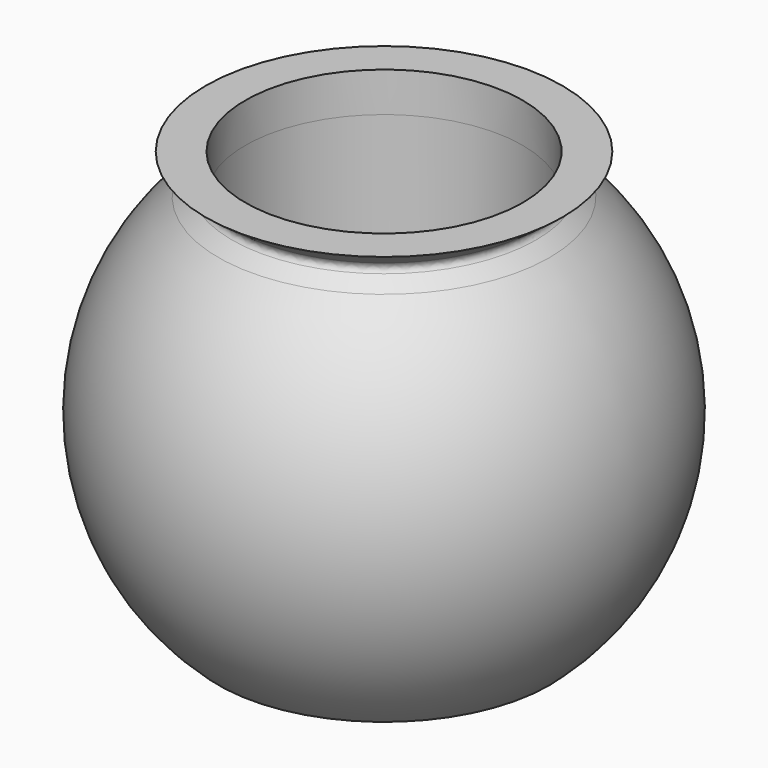
from build123d import *

# Parameters (mm, degrees)
F2_R = 0.3


with BuildPart() as f1:
    # F0 (on Front) → F1 (revolve)
    with BuildSketch(Plane.XZ):
        with BuildLine():
            ThreePointArc((7, 10.5367215015), (7.1729141054, 10.4197794236), (7.3438749989, 10.3))
            Line((7.3438749989, 10.3), (9, 11.5))
            Line((9, 11.5), (7, 11.5))
            Line((7, 11.5), (7, 10.5367215015))
        make_face()
        with BuildLine():
            ThreePointArc((8.3529934754, 9.5), (7.8586207425, 9.9128492385), (7.3438749989, 10.3))
            ThreePointArc((7.3438749989, 10.3), (7.1729141054, 10.4197794236), (7, 10.5367215015))
            Line((7, 10.5367215015), (7, 9.5))
            Line((7, 9.5), (8.3529934754, 9.5))
        make_face()
    revolve(axis=Axis((0, 0, 9.4776125625), (0, 0, -1)))

    # F2
    f2_edges = [f1.edges().sort_by_distance(p)[0] for p in [
        (-7.343875, 0, 10.3),
    ]]
    fillet(f2_edges, radius=F2_R)


with BuildPart() as f3:
    # F0 (on Front) → F3 (revolve)
    with BuildSketch(Plane.XZ):
        with BuildLine():
            ThreePointArc((8.3529934754, -9.5), (12.65, 0), (8.3529934754, 9.5))
            Line((8.3529934754, 9.5), (7, 9.5))
            Line((7, 9.5), (7, -9.5))
            Line((7, -9.5), (8.3529934754, -9.5))
        make_face()
    revolve(axis=Axis((0, 0, 9.4776125625), (0, 0, -1)))


solid = Compound([f1.part, f3.part])
